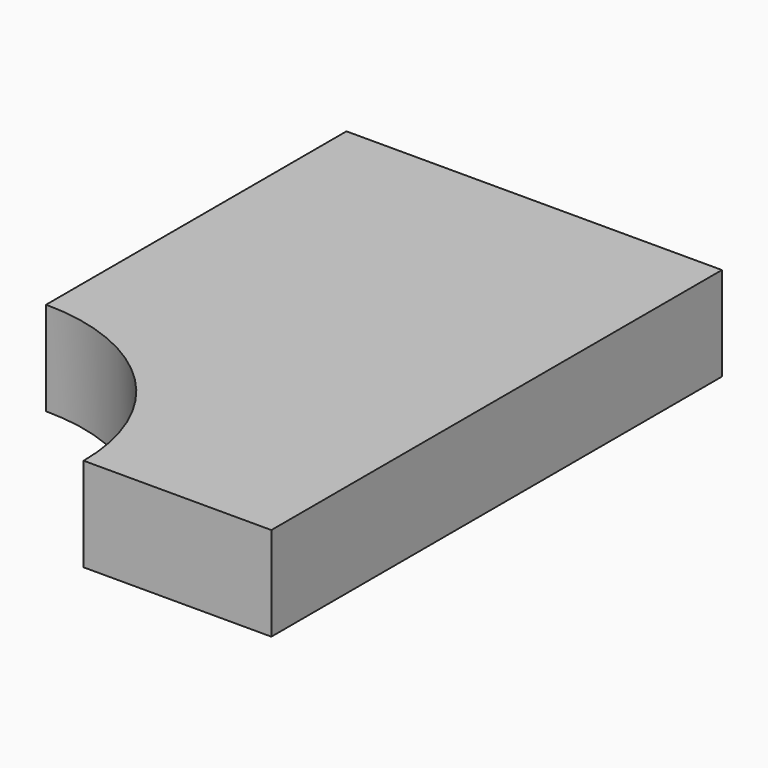
from build123d import *

# Parameters (mm, degrees)
F1_DEPTH = 5


with BuildPart() as f1:
    # F0 (on Top) → F1 (new body)
    with BuildSketch(Plane.XY):
        with BuildLine():
            Line((0, 30), (0, 10))
            ThreePointArc((0, 10), (7.071068, 7.071068), (10, 0))
            Line((10, 0), (20, 0))
            Line((20, 0), (20, 30))
            Line((20, 30), (0, 30))
        make_face()
    extrude(amount=F1_DEPTH)


solid = f1.part
